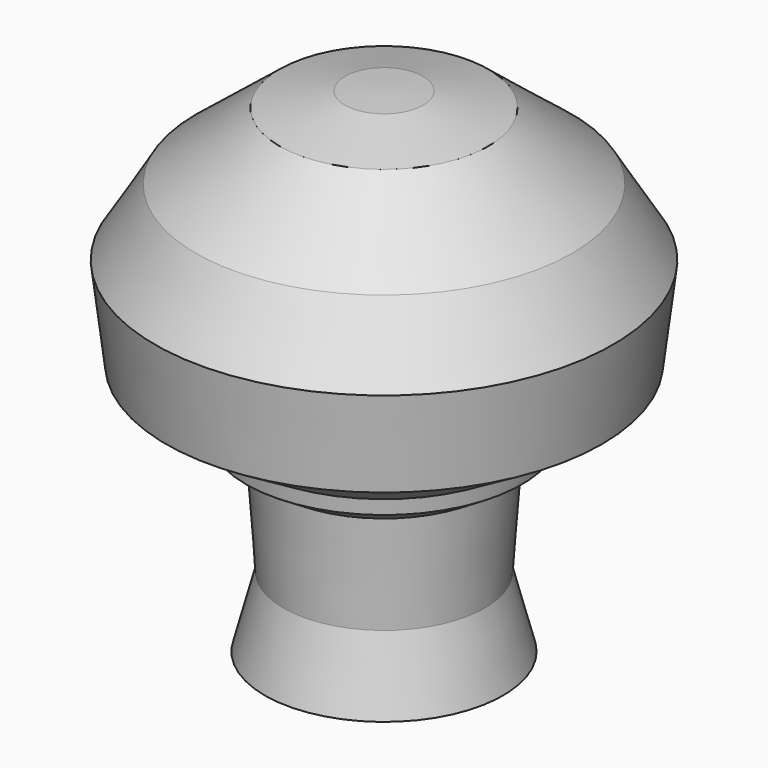
from build123d import *

# Parameters (mm, degrees)
F2_SCALE = 0.2


with BuildPart() as f1:
    # F0 (on Front) → F1 (revolve)
    with BuildSketch(Plane.XZ):
        Polygon((6.506757, -82.418919), (-2.168919, -115.386486), (53.355406, -115.386486), (53.355406, 115.386487), (35.136487, 114.518919), (4.771622, 107.578378), (-34.268919, 76.345946), (-53.355405, 45.113514), (-48.15, 2.602703), (-11.712162, -19.086486), (-10.844594, -26.027027), (3.036487, -34.702703), align=None)
    revolve(axis=Axis((53.355406, 0, 5e-07), (0, 0, -1)))


with BuildPart() as f1_1:
    # F2: moved
    add(f1.part.scale(F2_SCALE))


solid = f1_1.part
